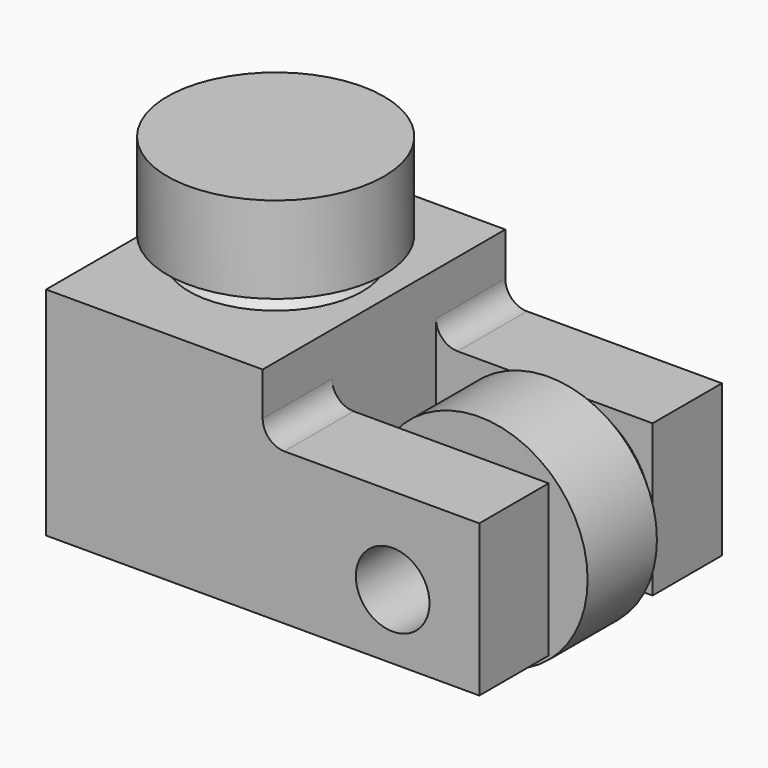
from build123d import *

# Parameters (mm, degrees)
CYLINDER082_R     = 5
CYLINDER082_DEPTH = 4
CYLINDER083_R     = 5
CYLINDER083_DEPTH = 4
CYLINDER084_R     = 1.7
CYLINDER084_DEPTH = 18
BOX002_W          = 11
BOX002_H          = 6
BOX002_DEPTH      = 10
BOX001_W          = 10
BOX001_H          = 14
BOX001_DEPTH      = 7
BOX003_W          = 10
BOX003_H          = 10
BOX003_DEPTH      = 10
CYLINDER_R        = 1.7
CYLINDER_DEPTH    = 14
BOX_W             = 10
BOX_H             = 14
BOX_DEPTH         = 10
CHAMFER_SIZE      = 1.5
FILLET_R          = 1


with BuildPart() as f_623_bearing:
    # Cylinder082 → Cylinder082 (new body)
    with BuildSketch(Plane.XY.offset(12)):
        Circle(CYLINDER082_R)
    extrude(amount=CYLINDER082_DEPTH)


with BuildPart() as f_623_bearing001:
    # Cylinder083 → Cylinder083 (new body)
    with BuildSketch(Plane(origin=(11, 2, 4), x_dir=(1, 0, 0), z_dir=(0, -1, 0))):
        Circle(CYLINDER083_R)
    extrude(amount=CYLINDER083_DEPTH)


with BuildPart() as screw:
    # Cylinder084 → Cylinder084 (new body)
    with BuildSketch(Plane(origin=(11, 8, 4), x_dir=(1, 0, 0), z_dir=(0, -1, 0))):
        Circle(CYLINDER084_R)
    extrude(amount=CYLINDER084_DEPTH)


with BuildPart() as cube002:
    # Box002 → Box002 (new body)
    with BuildSketch(Plane(origin=(5, -3, 0), x_dir=(1, 0, 0), z_dir=(0, 0, 1))):
        with Locations((5.5, 3)):
            Rectangle(BOX002_W, BOX002_H)
    extrude(amount=BOX002_DEPTH)


with BuildPart() as cut:
    # Box001 → Box001 (new body)
    with BuildSketch(Plane(origin=(5, -7, 1), x_dir=(1, 0, 0), z_dir=(0, 0, 1))):
        with Locations((5, 7)):
            Rectangle(BOX001_W, BOX001_H)
    extrude(amount=BOX001_DEPTH)

    # Cut: cut Cube002
    add(cube002.part, mode=Mode.SUBTRACT)


with BuildPart() as cube003:
    # Box003 → Box003 (new body)
    with BuildSketch(Plane(origin=(5, -5, -9), x_dir=(1, 0, 0), z_dir=(0, 0, 1))):
        with Locations((5, 5)):
            Rectangle(BOX003_W, BOX003_H)
    extrude(amount=BOX003_DEPTH)


with BuildPart() as cone002:
    # Cone002 → Cone002 (revolve)
    with BuildSketch(Plane(origin=(11, 2, 4), x_dir=(1, 0, 0), z_dir=(0, 0, 1))):
        Polygon((0, 0), (3, 0), (4, 1), (0, 1), align=None)
    revolve(axis=Axis((11, 2, 4), (0, 1, 0)))


with BuildPart() as cut002:
    # Cone001 → Cone001 (revolve)
    with BuildSketch(Plane(origin=(11, -2, 4), x_dir=(1, 0, 0), z_dir=(0, 0, -1))):
        Polygon((0, 0), (3, 0), (4, 1), (0, 1), align=None)
    revolve(axis=Axis((11, -2, 4), (0, -1, 0)))

    # Fusion: union Cone002
    add(cone002.part)

    # Cut001: cut Cube003
    add(cube003.part, mode=Mode.SUBTRACT)

    # Fusion001: union Cut
    add(cut.part)

    # Cut002: cut screw
    add(screw.part, mode=Mode.SUBTRACT)


with BuildPart() as cylinder:
    # Cylinder → Cylinder (new body)
    with BuildSketch(Plane.XY):
        Circle(CYLINDER_R)
    extrude(amount=CYLINDER_DEPTH)


with BuildPart() as cone:
    # Cone → Cone (revolve)
    with BuildSketch(Plane(origin=(0, 0, 12), x_dir=(1, 0, 0), z_dir=(0, 1, 0))):
        Polygon((0, 0), (3, 0), (4, 1), (0, 1), align=None)
    revolve(axis=Axis((0, 0, 12), (0, 0, -1)))


with BuildPart() as fillet_body:
    # Box → Box (new body)
    with BuildSketch(Plane(origin=(-5, -7, 1), x_dir=(1, 0, 0), z_dir=(0, 0, 1))):
        with Locations((5, 7)):
            Rectangle(BOX_W, BOX_H)
    extrude(amount=BOX_DEPTH)

    # Fusion002: union Cone
    add(cone.part)

    # Cut003: cut Cylinder
    add(cylinder.part, mode=Mode.SUBTRACT)

    # Fusion003: union Cut002
    add(cut002.part)

    # Chamfer
    chamfer_edges = [fillet_body.edges().sort_by_distance(p)[0] for p in [
        (-1.7, 0, 1),
    ]]
    chamfer(chamfer_edges, length=CHAMFER_SIZE)

    # Fillet
    fillet_edges = [fillet_body.edges().sort_by_distance(p)[0] for p in [
        (5, 5, 8),
        (5, -5, 8),
    ]]
    fillet(fillet_edges, radius=FILLET_R)


solid = Compound([f_623_bearing.part, f_623_bearing001.part, fillet_body.part])
